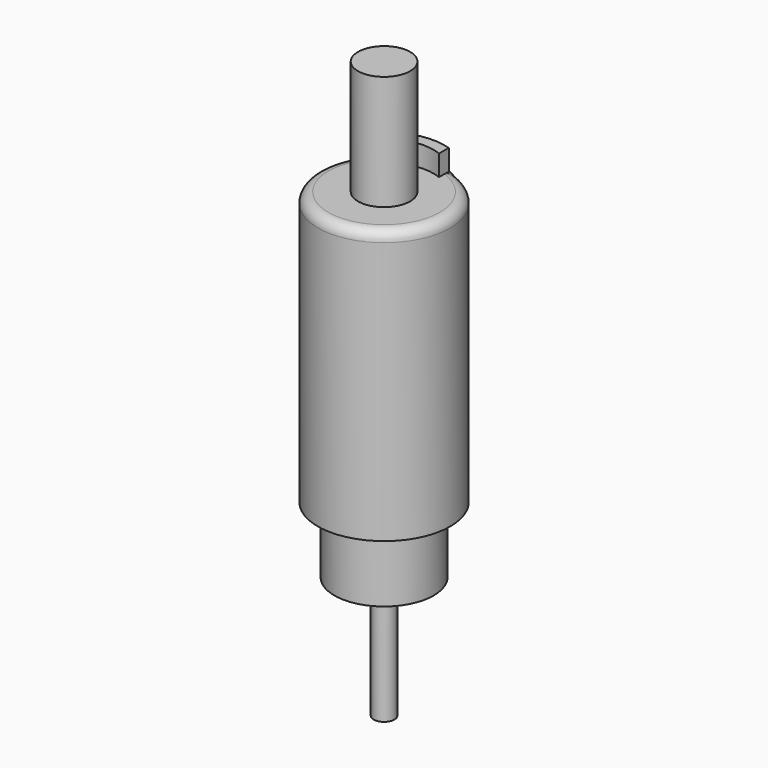
from build123d import *

# Parameters (mm, degrees)
SKETCH_R     = 4.76
PAD_DEPTH    = 6.35
SKETCH001_R  = 6.35
PAD001_DEPTH = 26.2
SKETCH002_R  = 1
PAD002_DEPTH = 11.7
SKETCH003_R  = 2.5
PAD003_DEPTH = 11
PAD004_DEPTH = 2
FILLET_R     = 1


with BuildPart() as part:
    # Sketch → Pad (new body)
    with BuildSketch(Plane.XY):
        Circle(SKETCH_R)
    extrude(amount=PAD_DEPTH)

    # Sketch001 (on Face3 of Pad) → Pad001 (join)
    with BuildSketch(Plane.XY.offset(6.35)):
        Circle(SKETCH001_R)
    extrude(amount=PAD001_DEPTH)

    # Sketch002 (on Face5 of Pad001) → Pad002 (join)
    with BuildSketch(Plane(origin=(0, 0, 0), x_dir=(1, 0, 0), z_dir=(0, 0, -1))):
        Circle(SKETCH002_R)
    extrude(amount=PAD002_DEPTH)

    # Sketch003 (on Face3 of Pad002) → Pad003 (join)
    with BuildSketch(Plane.XY.offset(32.55)):
        Circle(SKETCH003_R)
    extrude(amount=PAD003_DEPTH)

    # Sketch004 (on Face3 of Pad003) → Pad004 (join)
    with BuildSketch(Plane.XY.offset(32.55)):
        with BuildLine():
            ThreePointArc((1.736759, 5.586248), (0, 5.85), (-1.736759, 5.586248))
            Line((-1.736759, 4.421105), (-1.736759, 5.586248))
            ThreePointArc((1.736759, 4.421105), (0, 4.75), (-1.736759, 4.421105))
            Line((1.736759, 5.586248), (1.736759, 4.421105))
        make_face()
    extrude(amount=PAD004_DEPTH)

    # Fillet
    fillet_edges = [part.edges().sort_by_distance(p)[0] for p in [
        (-6.35, 0, 32.55),
    ]]
    fillet(fillet_edges, radius=FILLET_R)


solid = part.part
